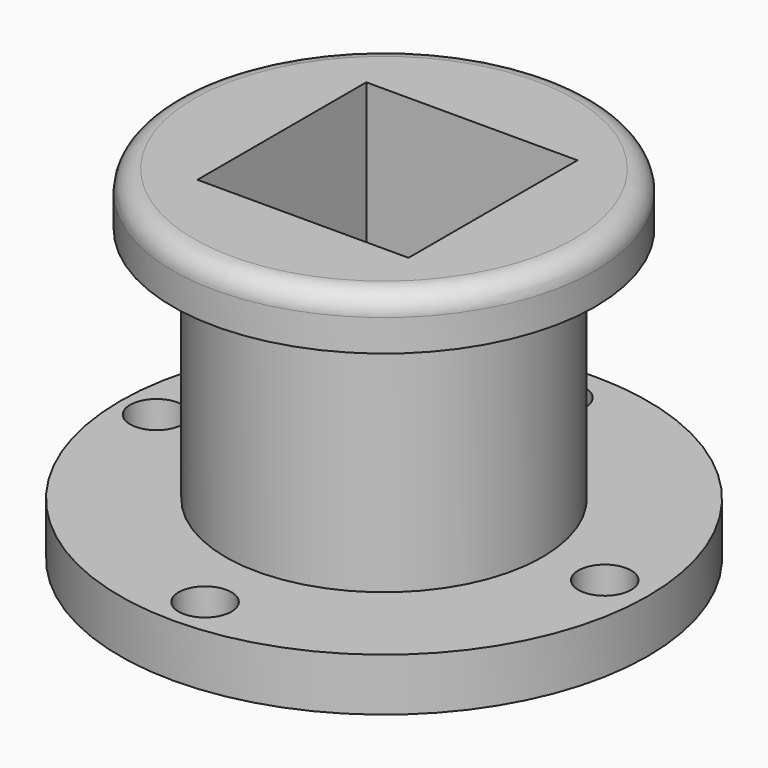
from build123d import *

# Parameters (mm, degrees)
F0_R       = 50.8
F0_W       = 50.8
F0_H       = 50.8
F1_DEPTH   = 12.7
F2_R       = 5.08
F3_R       = 38.1
F4_DEPTH   = 57.15
F5_R       = 63.5
F4_FACE1_W = 50.8
F4_FACE1_H = 50.8
F6_DEPTH   = 12.7
F7_DEPTH   = 106.68
F8_R       = 6.35
F8_R_2     = 6.3491552375
F9_DEPTH   = 12.7


with BuildPart() as f1:
    # F0 (on Top) → F1 (new body)
    with BuildSketch(Plane.XY):
        Circle(F0_R)
        with Locations((0.8204414785, 0)):
            Rectangle(F0_W, F0_H, mode=Mode.SUBTRACT)
    extrude(amount=F1_DEPTH)

    # F2
    f2_edges = [f1.edges().sort_by_distance(p)[0] for p in [
        (-50.8, 0, 12.7),
    ]]
    fillet(f2_edges, radius=F2_R)

    # F3 (on face) → F4 (join)
    with BuildSketch(Plane(origin=(0, 0, 0), x_dir=(1, 0, 0), z_dir=(0, 0, -1))):
        Circle(F3_R)
    extrude(amount=F4_DEPTH)

    # F5 (on face) + F4_face1 (on face) → F6 (join)
    with BuildSketch(Plane(origin=(0, 0, -57.15), x_dir=(1, 0, 0), z_dir=(0, 0, -1))):
        Circle(F5_R)
    with BuildSketch(Plane(origin=(0.8204414785, 0, 0), x_dir=(1, 0, 0), z_dir=(0, 0, 1))):
        Rectangle(F4_FACE1_W, F4_FACE1_H)
    extrude(amount=F6_DEPTH, dir=(0, 0, -1))

    # F7 (cut): a face of the model
    f7_faces = [f1.faces().sort_by_distance(p)[0] for p in [
        (0.8204414785, 0, 0),
    ]]
    extrude(f7_faces, amount=-F7_DEPTH, mode=Mode.SUBTRACT)

    # F8 (on face) → F9 (cut)
    with BuildSketch(Plane(origin=(0, 0, -69.85), x_dir=(1, 0, 0), z_dir=(0, 0, -1))):
        with Locations((0, -52.5982305408)):
            Circle(F8_R)
        with Locations((53.1039834023, 0)):
            Circle(F8_R_2)
        with Locations((0, 53.8120344281)):
            Circle(F8_R)
        with Locations((-54.7223910689, 0)):
            Circle(F8_R)
    extrude(amount=-F9_DEPTH, mode=Mode.SUBTRACT)


solid = f1.part
